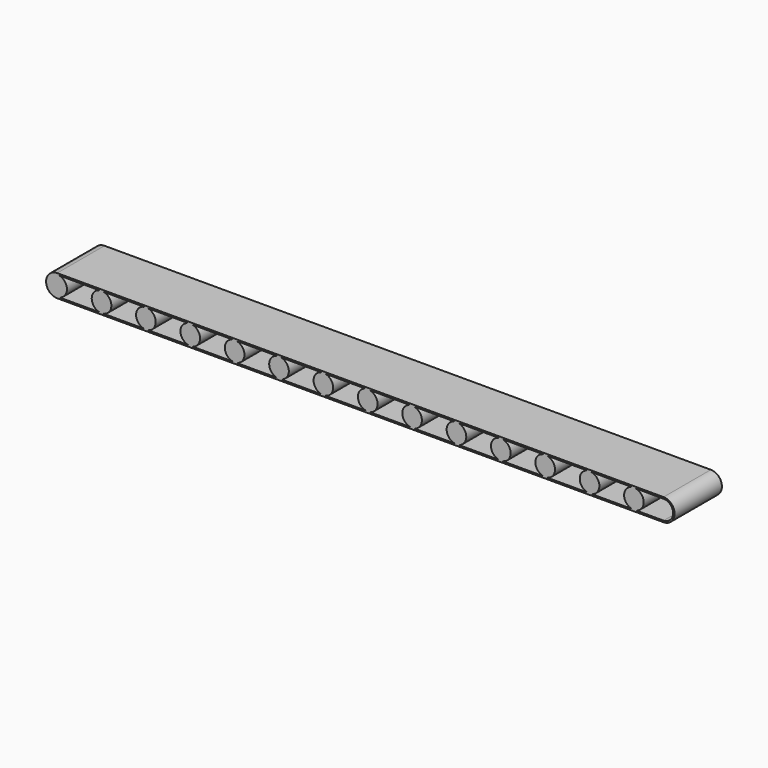
from build123d import *

# Parameters (mm, degrees)
F1_DEPTH = 800
F2_T     = -20
F3_DEPTH = 25
F4_R     = 132.699842737
F5_DEPTH = 800


with BuildPart() as f1:
    # F0 (on Front) → F1 (new body)
    with BuildSketch(Plane.XZ):
        with BuildLine():
            ThreePointArc((0, 150), (43.933982822, 43.933982822), (150, 0))
            Line((150, 0), (8350, 0))
            ThreePointArc((8350, 0), (8456.066017178, 43.933982822), (8500, 150))
            ThreePointArc((8500, 150), (8456.066017178, 256.066017178), (8350, 300))
            Line((8350, 300), (150, 300))
            ThreePointArc((150, 300), (43.933982822, 256.066017178), (0, 150))
        make_face()
    extrude(amount=F1_DEPTH)

    # F2
    f2_openings = [f1.faces().sort_by_distance(p)[0] for p in [
        (4250, -800, 150),
    ]]
    offset(amount=F2_T, openings=f2_openings)

    # F3 (cut): a face of the model
    f3_faces = [f1.faces().sort_by_distance(p)[0] for p in [
        (4250, -20, 150),
    ]]
    extrude(f3_faces, amount=-F3_DEPTH, mode=Mode.SUBTRACT)

    # F4 (on face) → F5 (join)
    with BuildSketch(Plane.XZ.offset(800)):
        with Locations((150, 150)):
            Circle(F4_R)
        with Locations((750, 150)):
            Circle(F4_R)
        with Locations((1350, 150)):
            Circle(F4_R)
        with Locations((1950, 150)):
            Circle(F4_R)
        with Locations((2550, 150)):
            Circle(F4_R)
        with Locations((3150, 150)):
            Circle(F4_R)
        with Locations((3750, 150)):
            Circle(F4_R)
        with Locations((4350, 150)):
            Circle(F4_R)
        with Locations((4950, 150)):
            Circle(F4_R)
        with Locations((5550, 150)):
            Circle(F4_R)
        with Locations((6150, 150)):
            Circle(F4_R)
        with Locations((6750, 150)):
            Circle(F4_R)
        with Locations((7350, 150)):
            Circle(F4_R)
        with Locations((7950, 150)):
            Circle(F4_R)
    extrude(amount=-F5_DEPTH)


solid = f1.part
